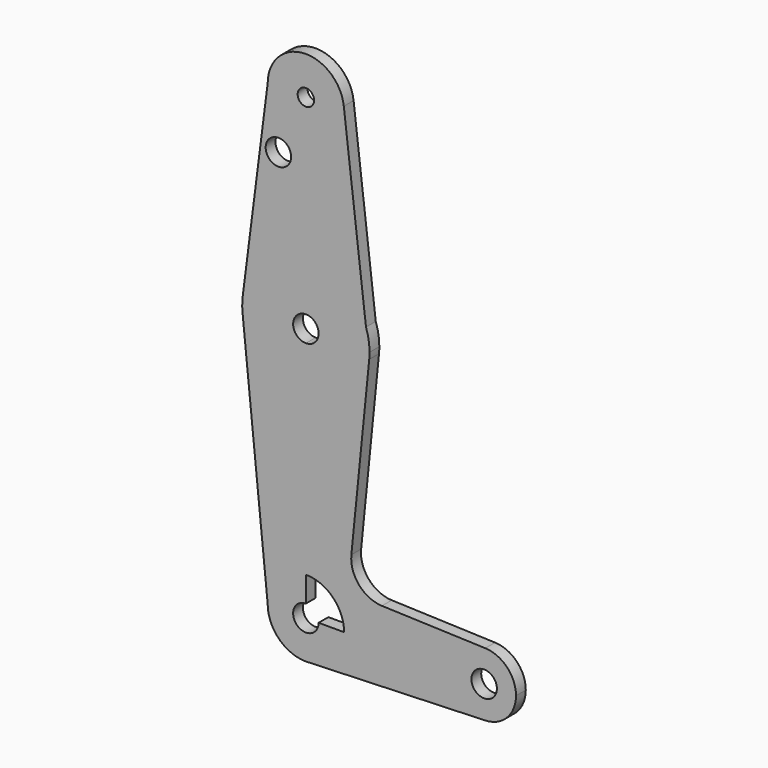
from build123d import *

# Parameters (mm, degrees)
F0_R     = 3.175
F1_DEPTH = 3.048


with BuildPart() as f1:
    # F0 (on Front) → F1 (new body)
    with BuildSketch(Plane.XZ):
        with BuildLine():
            ThreePointArc((3.175, 0), (-2.2450640303, -2.2450640303), (0, 3.175))
            Line((0, 3.175), (0, 9.525))
            ThreePointArc((0, 9.525), (-6.7351920908, 6.7351920908), (-9.525, 0))
            ThreePointArc((-9.525, 0), (-6.7351920908, -6.7351920908), (0, -9.525))
            Line((0, -9.525), (0.6773435479, -9.500885786))
            ThreePointArc((0.6773435479, -9.500885786), (6.9705567315, -6.4912990883), (9.525, 0))
            Line((9.525, 0), (3.175, 0))
        make_face()
        with BuildLine():
            ThreePointArc((-9.525, 0), (-6.7351920908, 6.7351920908), (0, 9.525))
            Line((0, 9.525), (0, 47.625))
            ThreePointArc((0, 47.625), (-10.644756084, 51.722700101), (-15.7942028036, 61.9003804205))
            Line((-15.7942028036, 61.9003804205), (-9.525, 0))
        make_face()
        with BuildLine():
            Line((0, 47.625), (0, 9.525))
            ThreePointArc((0, 9.525), (6.7351920908, 6.7351920908), (9.525, 0))
            Line((9.525, 0), (36.5125, 0))
            ThreePointArc((36.5125, 0), (38.9380895153, 5.7116327839), (44.7324052746, 7.9324746146))
            Line((44.7324052746, 7.9324746146), (18.968327868, 8.8497055806))
            ThreePointArc((18.968327868, 8.8497055806), (13.2612039825, 11.5674628959), (11.3408358685, 17.5898921545))
            Line((11.3408358685, 17.5898921545), (15.7954255641, 61.9125))
            ThreePointArc((15.7954255641, 61.9125), (10.6492737428, 51.7267849017), (0, 47.625))
        make_face()
        with BuildLine():
            Line((36.5125, 0), (9.525, 0))
            ThreePointArc((9.525, 0), (6.9705567315, -6.4912990883), (0.6773435479, -9.500885786))
            Line((0.6773435479, -9.500885786), (44.7324052746, -7.9324746146))
            ThreePointArc((44.7324052746, -7.9324746146), (38.9380895153, -5.7116327839), (36.5125, 0))
        make_face()
        with BuildLine():
            ThreePointArc((-15.7942028036, 61.9003804205), (-10.644756084, 51.722700101), (0, 47.625))
            Line((0, 47.625), (0, 60.325))
            ThreePointArc((0, 60.325), (-3.175, 63.5), (0, 66.675))
            Line((0, 66.675), (0, 79.375))
            ThreePointArc((0, 79.375), (-10.4912828548, 75.4142187767), (-15.7474569047, 65.5082893304))
            ThreePointArc((-15.7474569047, 65.5082893304), (-15.873667691, 63.7056672947), (-15.7942028036, 61.9003804205))
        make_face()
        with BuildLine():
            Line((0, 60.325), (0, 47.625))
            ThreePointArc((0, 47.625), (10.6492737428, 51.7267849017), (15.7954255641, 61.9125))
            Line((15.7954255641, 61.9125), (14.9877324754, 68.7329246359))
            ThreePointArc((14.9877324754, 68.7329246359), (9.1908363712, 76.4438847259), (0, 79.375))
            Line((0, 79.375), (0, 66.675))
            ThreePointArc((0, 66.675), (2.2450640303, 65.7450640303), (3.175, 63.5))
            ThreePointArc((3.175, 63.5), (2.2450640303, 61.2549359697), (0, 60.325))
        make_face()
        with BuildLine():
            ThreePointArc((44.7324052746, 7.9324746146), (38.9380895153, 5.7116327839), (36.5125, 0))
            ThreePointArc((36.5125, 0), (38.9380895153, -5.7116327839), (44.7324052746, -7.9324746146))
            ThreePointArc((44.7324052746, -7.9324746146), (50.1616327839, -5.5119104847), (52.3875, 0))
            ThreePointArc((52.3875, 0), (50.1616327839, 5.5119104847), (44.7324052746, 7.9324746146))
        make_face()
        with BuildLine():
            ThreePointArc((47.625, 0), (44.45, -3.175), (41.275, 0))
            ThreePointArc((41.275, 0), (44.45, 3.175), (47.625, 0))
        make_face(mode=Mode.SUBTRACT)
        with BuildLine():
            ThreePointArc((0, -9.525), (0.3388863295, -9.5189695375), (0.6773435479, -9.500885786))
            Line((0.6773435479, -9.500885786), (0, -9.525))
        make_face()
        with BuildLine():
            Line((14.9877324754, 68.7329246359), (15.7954255641, 61.9125))
            ThreePointArc((15.7954255641, 61.9125), (15.8550939106, 62.7052534459), (15.875, 63.5))
            ThreePointArc((15.875, 63.5), (15.6516113875, 66.1538059417), (14.9877324754, 68.7329246359))
        make_face()
        with BuildLine():
            Line((-9.525, 114.3), (-15.7474569047, 65.5082893304))
            ThreePointArc((-15.7474569047, 65.5082893304), (-10.4912828548, 75.4142187767), (0, 79.375))
            Line((0, 79.375), (0, 104.775))
            ThreePointArc((0, 104.775), (-6.7351920908, 107.5648079092), (-9.525, 114.3))
        make_face()
        with Locations((-6.853258171, 100.0252)):
            Circle(F0_R, mode=Mode.SUBTRACT)
        with BuildLine():
            ThreePointArc((0, 79.375), (9.1908363712, 76.4438847259), (14.9877324754, 68.7329246359))
            Line((14.9877324754, 68.7329246359), (9.4589053806, 115.4201490977))
            ThreePointArc((9.4589053806, 115.4201490977), (9.5084619879, 114.8610486832), (9.525, 114.3))
            ThreePointArc((9.525, 114.3), (6.7351920908, 107.5648079092), (0, 104.775))
            Line((0, 104.775), (0, 79.375))
        make_face()
        with BuildLine():
            ThreePointArc((9.4589053806, 115.4201490977), (-0.5610486832, 123.8084619879), (-9.525, 114.3))
            ThreePointArc((-9.525, 114.3), (-6.7351920908, 107.5648079092), (0, 104.775))
            ThreePointArc((0, 104.775), (6.7351920908, 107.5648079092), (9.525, 114.3))
            ThreePointArc((9.525, 114.3), (9.5084619879, 114.8610486832), (9.4589053806, 115.4201490977))
        make_face()
        with BuildLine():
            ThreePointArc((2.0503685491, 114.3), (1.449829505, 112.850170495), (0, 112.2496314509))
            ThreePointArc((0, 112.2496314509), (-1.449829505, 115.749829505), (2.0503685491, 114.3))
        make_face(mode=Mode.SUBTRACT)
    extrude(amount=F1_DEPTH)


solid = f1.part
